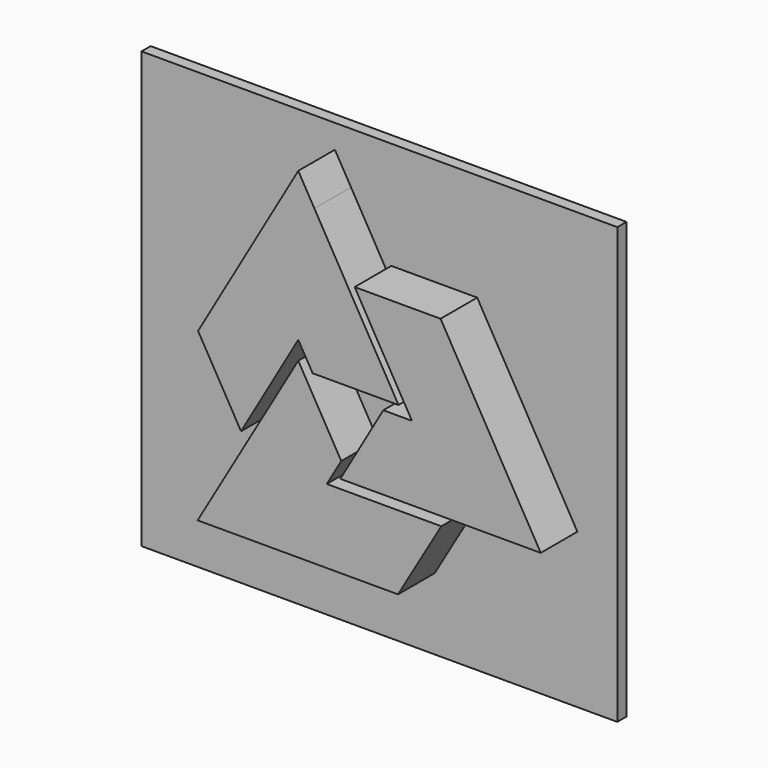
from build123d import *

# Parameters (mm, degrees)
F1_W     = 211.119264
F1_H     = 193.24705
F2_DEPTH = 5.08
F3_DEPTH = 25.4


with BuildPart() as f2:
    # F1 (on Front) → F2 (new body)
    with BuildSketch(Plane.XZ):
        with Locations((31.066388, 21.170855)):
            Rectangle(F1_W, F1_H)
    extrude(amount=F2_DEPTH)


with BuildPart() as f3:
    # F0 (on Front) → F3 (new body)
    with BuildSketch(Plane.XZ):
        Polygon((-26.149142, -31.37113), (-33.326317, -43.72551), (55.573683, -43.72551), (74.767594, -10.890181), (23.967594, -10.890181), (30.380575, 0.14876), (11.330575, 33.144328), align=None)
        Polygon((18.469585, 94.931471), (11.325662, 107.30511), (-33.124338, 30.315451), (-14.074338, -2.680117), (11.325662, 41.313974), (17.675662, 30.315451), (55.775662, 30.315451), align=None)
        Polygon((104.604711, -6.931847), (118.892558, -6.931847), (74.442558, 70.057811), (36.342558, 70.057811), (61.742558, 26.063721), (49.042558, 26.063721), (29.992558, -6.931847), align=None)
    extrude(amount=F3_DEPTH)


solid = Compound([f2.part, f3.part])
